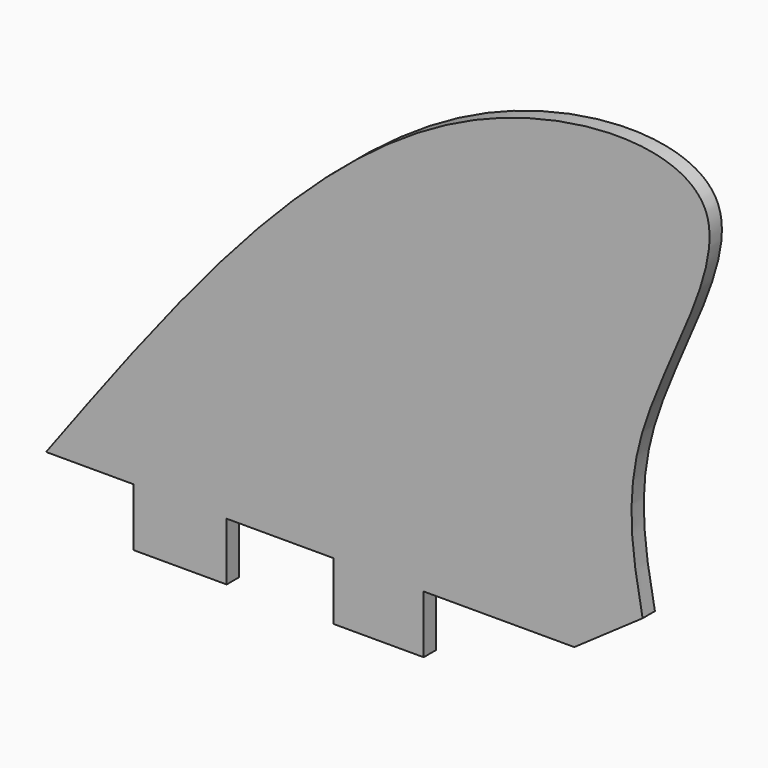
from build123d import *

# Parameters (mm, degrees)
F1_DEPTH = 5.1299091429


with BuildPart() as f1:
    # F0 (on Front) → F1 (new body)
    with BuildSketch(Plane.XZ):
        with BuildLine():
            add(Edge.make_bspline(
                [(123.5226392746, -23.1986492872), (120.3080788863, -6.4533028819), (113.3337169489, 29.8777405484), (172.7358423926, 120.3138118369), (41.0582655264, 118.4563106412), (-30.9594902689, 21.1225774504), (-75.4973292351, -39.0714108944)],
                knots=[0, 0, 0, 0, 0.1895838708, 0.4113249484, 0.6359464196, 1, 1, 1, 1], degree=3))
            Line((-75.4973292351, -39.0714108944), (-46.3972836733, -39.0714108944))
            Line((-46.3972836733, -39.0714108944), (-46.3972836733, -58.4036111832))
            Line((-46.3972836733, -58.4036111832), (-15.2622461319, -58.4036111832))
            Line((-15.2622461319, -58.4036111832), (-15.2622461319, -39.0714108944))
            Line((-15.2622461319, -39.0714108944), (20.3497111797, -39.0714108944))
            Line((20.3497111797, -39.0714108944), (20.3497111797, -58.4036111832))
            Line((20.3497111797, -58.4036111832), (50.4672378302, -58.4036111832))
            Line((50.4672378302, -58.4036111832), (50.4672378302, -39.0714108944))
            Line((50.4672378302, -39.0714108944), (100.7309854031, -39.0714108944))
            Line((100.7309854031, -39.0714108944), (123.5226392746, -23.1986492872))
        make_face()
    extrude(amount=F1_DEPTH)


solid = f1.part
